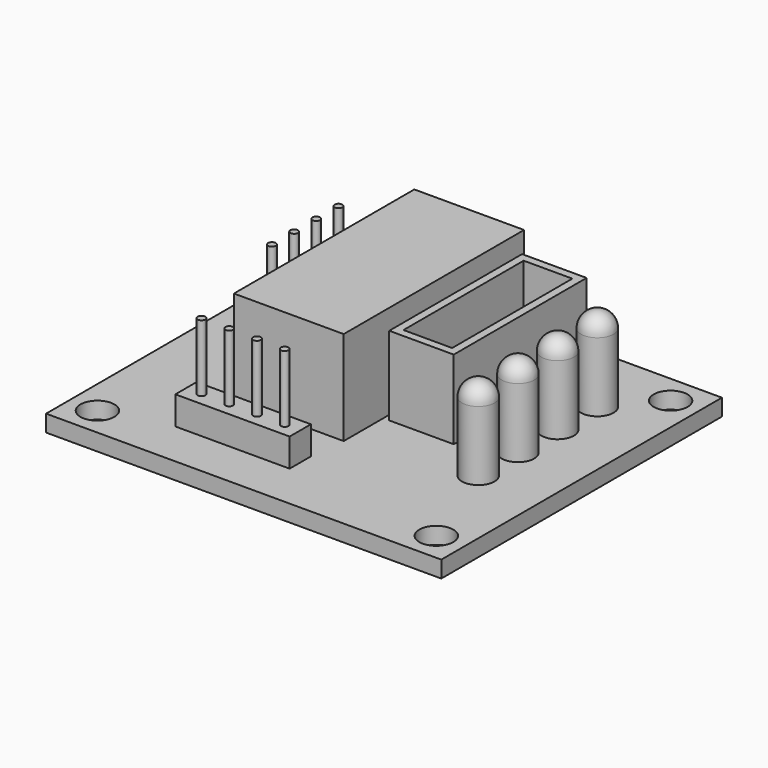
from build123d import *

# Parameters (mm, degrees)
F0_W      = 35.4838
F0_H      = 31.496
F0_R      = 1.524
F1_DEPTH  = 1.4986
F2_W      = 9.8552
F2_H      = 20.2438
F3_DEPTH  = 8.4582
F2_W_2    = 5.7912
F2_H_2    = 14.9098
F2_W_3    = 4.3688
F2_H_3    = 13.4874
F4_DEPTH  = 7.0866
F2_R      = 1.4605
F5_DEPTH  = 7.6708
F6_R      = 1.4605
F2_R_2    = 0.3429
F7_DEPTH  = 8.5344
F8_DEPTH  = 8.5344
F2_W_4    = 2.3876
F2_H_4    = 10.2616
F9_DEPTH  = 2.54
F2_W_5    = 10.2616
F2_H_5    = 2.3876
F10_DEPTH = 2.54


with BuildPart() as f1:
    # F0 (on Top) → F1 (new body)
    with BuildSketch(Plane.XY):
        Rectangle(F0_W, F0_H)
        with Locations((-15.2146, -13.1445)):
            Circle(F0_R, mode=Mode.SUBTRACT)
        with Locations((15.2146, -13.1445)):
            Circle(F0_R, mode=Mode.SUBTRACT)
        with Locations((-15.2146, 13.1445)):
            Circle(F0_R, mode=Mode.SUBTRACT)
        with Locations((15.2146, 13.1445)):
            Circle(F0_R, mode=Mode.SUBTRACT)
    extrude(amount=F1_DEPTH)

    # F2 (on face) → F3 (join)
    with BuildSketch(Plane.XY.offset(1.4986)):
        with Locations((-3.7719, 4.1529)):
            Rectangle(F2_W, F2_H)
    extrude(amount=F3_DEPTH)

    # F2 (on face) → F4 (join)
    with BuildSketch(Plane.XY.offset(1.4986)):
        with Locations((4.5847, 5.9309)):
            Rectangle(F2_W_2, F2_H_2)
        with Locations((4.5847, 5.9309)):
            Rectangle(F2_W_3, F2_H_3, mode=Mode.SUBTRACT)
    extrude(amount=F4_DEPTH)

    # F2 (on face) → F5 (join)
    with BuildSketch(Plane.XY.offset(1.4986)):
        with Locations((11.7856, -4.1529)):
            Circle(F2_R)
        with Locations((11.7856, 0.300567)):
            Circle(F2_R)
        with Locations((11.7856, 4.754033)):
            Circle(F2_R)
        with Locations((11.7856, 9.2075)):
            Circle(F2_R)
    extrude(amount=F5_DEPTH)

    # F6
    f6_edges = [f1.edges().sort_by_distance(p)[0] for p in [
        (10.3251, -4.1529, 9.1694),
        (10.3251, 0.300567, 9.1694),
        (10.3251, 4.754033, 9.1694),
        (10.3251, 9.2075, 9.1694),
    ]]
    fillet(f6_edges, radius=F6_R)

    # F2 (on face) → F7 (join)
    with BuildSketch(Plane.XY.offset(1.4986)):
        with Locations((-11.1887, 1.4097)):
            Circle(F2_R_2)
        with Locations((-11.1887, 3.8989)):
            Circle(F2_R_2)
        with Locations((-11.1887, 6.3881)):
            Circle(F2_R_2)
        with Locations((-11.1887, 8.8773)):
            Circle(F2_R_2)
    extrude(amount=F7_DEPTH)

    # F2 (on face) → F8 (join)
    with BuildSketch(Plane.XY.offset(1.4986)):
        with Locations((-8.0518, -10.414)):
            Circle(F2_R_2)
        with Locations((-5.5626, -10.414)):
            Circle(F2_R_2)
        with Locations((-3.0734, -10.414)):
            Circle(F2_R_2)
        with Locations((-0.5842, -10.414)):
            Circle(F2_R_2)
    extrude(amount=F8_DEPTH)

    # F2 (on face) → F9 (join)
    with BuildSketch(Plane.XY.offset(1.4986)):
        with Locations((-11.1887, 5.1435)):
            Rectangle(F2_W_4, F2_H_4)
        with Locations((-11.1887, 1.4097)):
            Circle(F2_R_2, mode=Mode.SUBTRACT)
        with Locations((-11.1887, 3.8989)):
            Circle(F2_R_2, mode=Mode.SUBTRACT)
        with Locations((-11.1887, 6.3881)):
            Circle(F2_R_2, mode=Mode.SUBTRACT)
        with Locations((-11.1887, 8.8773)):
            Circle(F2_R_2, mode=Mode.SUBTRACT)
    extrude(amount=F9_DEPTH)

    # F2 (on face) → F10 (join)
    with BuildSketch(Plane.XY.offset(1.4986)):
        with Locations((-4.318, -10.414)):
            Rectangle(F2_W_5, F2_H_5)
        with Locations((-8.0518, -10.414)):
            Circle(F2_R_2, mode=Mode.SUBTRACT)
        with Locations((-5.5626, -10.414)):
            Circle(F2_R_2, mode=Mode.SUBTRACT)
        with Locations((-3.0734, -10.414)):
            Circle(F2_R_2, mode=Mode.SUBTRACT)
        with Locations((-0.5842, -10.414)):
            Circle(F2_R_2, mode=Mode.SUBTRACT)
    extrude(amount=F10_DEPTH)


solid = f1.part
